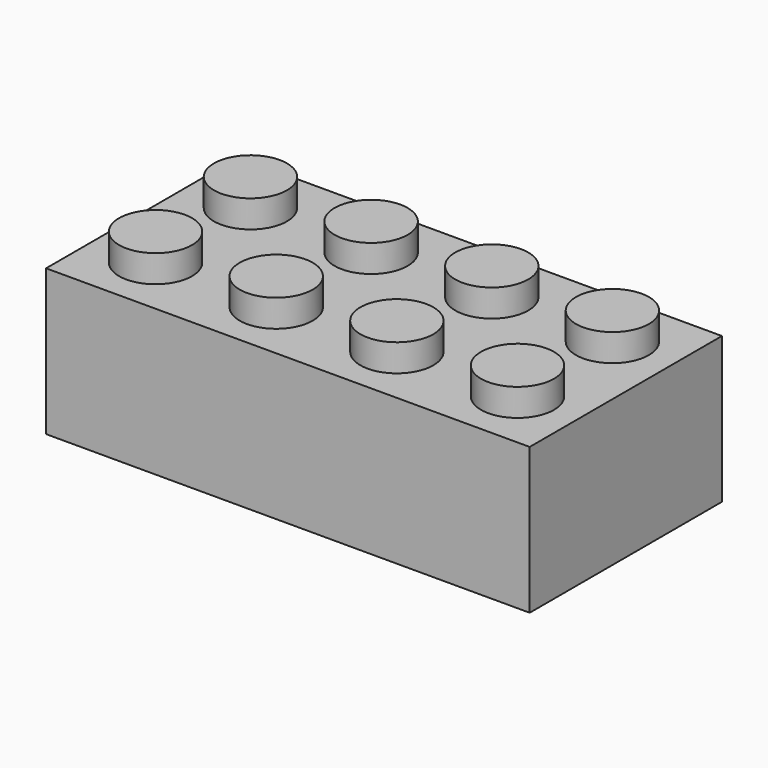
from build123d import *

# Parameters (mm, degrees)
SKETCH_W            = 47.7
SKETCH_H            = 23.7
PAD_DEPTH           = 14.4
SKETCH001_R         = 3.6
PAD001_DEPTH        = 2.7
LINEARPATTERN_COUNT = 4
LINEARPATTERN_PITCH = 11.9
SKETCH002_W         = 44.1
SKETCH002_H         = 20.1
SKETCH002_R         = 4.8825
SKETCH002_R_2       = 3.6
POCKET_DEPTH        = 12


with BuildPart() as part:
    # Sketch → Pad (new body)
    with BuildSketch(Plane.XY):
        Rectangle(SKETCH_W, SKETCH_H)
    extrude(amount=PAD_DEPTH)

    # Sketch001 (on Face6 of Pad) → Pad001 (join)
    with BuildSketch(Plane.XY.offset(14.4)):
        with Locations((-17.85, -5.85)):
            Circle(SKETCH001_R)
        with Locations((-17.85, 5.85)):
            Circle(SKETCH001_R)
    pad001 = extrude(amount=PAD001_DEPTH)

    # LinearPattern: Pad001 ×4
    with Locations(*[(i * LINEARPATTERN_PITCH, 0, 0) for i in range(1, LINEARPATTERN_COUNT)]):
        add(pad001)

    # Sketch002 (on Face4 of LinearPattern) → Pocket (cut)
    with BuildSketch(Plane(origin=(0, 0, 0), x_dir=(1, 0, 0), z_dir=(0, 0, -1))):
        Rectangle(SKETCH002_W, SKETCH002_H)
        with Locations((-11.85, 0)):
            Circle(SKETCH002_R, mode=Mode.SUBTRACT)
        with Locations((0.15, 0)):
            Circle(SKETCH002_R, mode=Mode.SUBTRACT)
        with Locations((12.15, 0)):
            Circle(SKETCH002_R, mode=Mode.SUBTRACT)
        with Locations((-11.85, 0)):
            Circle(SKETCH002_R_2)
        with Locations((0.15, 0)):
            Circle(SKETCH002_R_2)
        with Locations((12.15, 0)):
            Circle(SKETCH002_R_2)
    extrude(amount=-POCKET_DEPTH, mode=Mode.SUBTRACT)


solid = part.part
